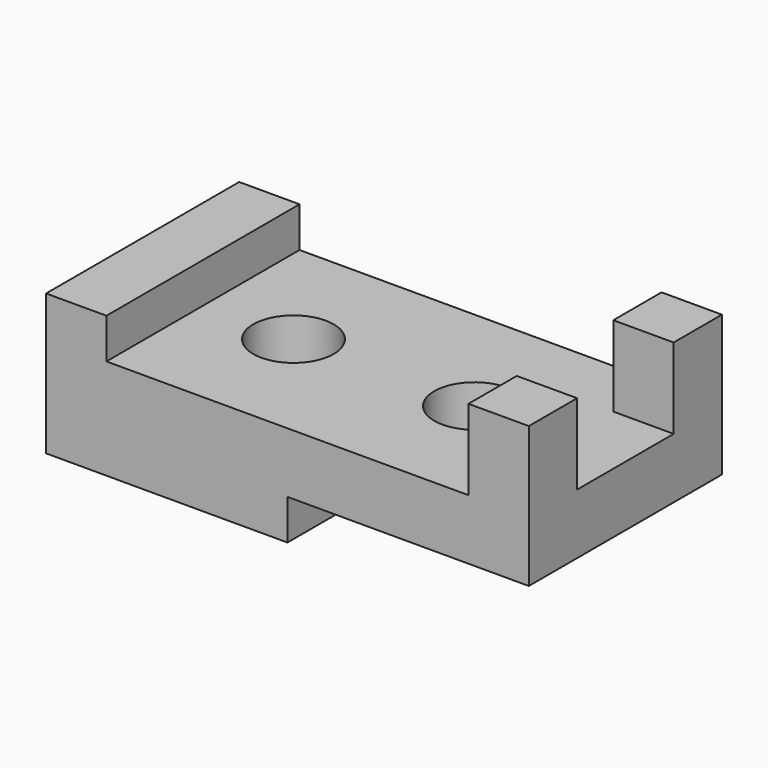
from build123d import *

# Parameters (mm, degrees)
SKETCH_W          = 120
SKETCH_H          = 60
PAD_DEPTH         = 45
SKETCH001_W       = 60
SKETCH001_H       = 10
POCKET_DEPTH      = 30.001
POCKET_DEPTH_BACK = -30.001
SKETCH002_W       = 30
SKETCH002_H       = 20
POCKET001_DEPTH   = 60.001
SKETCH003_R       = 10
POCKET002_DEPTH   = 45.001


with BuildPart() as part:
    # Sketch → Pad (new body)
    with BuildSketch(Plane.XY):
        Rectangle(SKETCH_W, SKETCH_H)
    extrude(amount=PAD_DEPTH)

    # Sketch001 → Pocket (cut, two sides)
    with BuildSketch(Plane.XZ) as pocket_sk:
        with Locations((30, 5)):
            Rectangle(SKETCH001_W, SKETCH001_H)
        Polygon((-60, 45), (45, 45), (45, 25), (-45, 25), (-45, 35), (-60, 35), align=None)
    extrude(amount=-POCKET_DEPTH, mode=Mode.SUBTRACT)
    extrude(pocket_sk.sketch, amount=-POCKET_DEPTH_BACK, mode=Mode.SUBTRACT)

    # Sketch002 → Pocket001 (cut, through all)
    with BuildSketch(Plane.YZ):
        with Locations((0, 35)):
            Rectangle(SKETCH002_W, SKETCH002_H)
    extrude(amount=POCKET001_DEPTH, mode=Mode.SUBTRACT)

    # Sketch003 → Pocket002 (cut, through all)
    with BuildSketch(Plane.XY):
        with Locations((-22.5, 0)):
            Circle(SKETCH003_R)
        with Locations((22.5, 0)):
            Circle(SKETCH003_R)
    extrude(amount=POCKET002_DEPTH, mode=Mode.SUBTRACT)


solid = part.part
